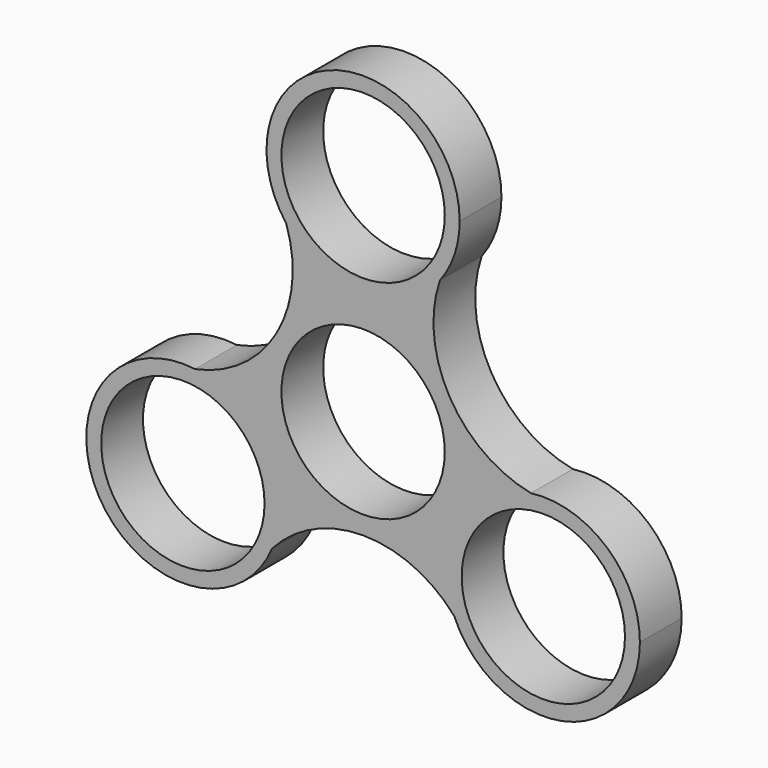
from build123d import *

# Parameters (mm, degrees)
F0_R     = 10.95
F0_R_2   = 12.95
F1_DEPTH = 7


with BuildPart() as f1:
    # F0 (on Front) → F1 (new body)
    with BuildSketch(Plane.XZ):
        with BuildLine():
            ThreePointArc((10.303035, 20.054621), (12.270428, 23.76006), (12.95, 27.9))
            ThreePointArc((12.95, 27.9), (-4.13994, 40.170428), (-10.303035, 20.054621))
            ThreePointArc((-10.303035, 20.054621), (0, 14.95), (10.303035, 20.054621))
        make_face()
        with Locations((0, 27.9)):
            Circle(F0_R, mode=Mode.SUBTRACT)
        with BuildLine():
            ThreePointArc((10.303035, 20.054621), (0, 14.95), (-10.303035, 20.054621))
            ThreePointArc((-10.303035, 20.054621), (-11.606078, 6.700772), (-22.519328, -1.104621))
            ThreePointArc((-22.519328, -1.104621), (-14.441602, -5.393468), (-11.212109, -13.95))
            ThreePointArc((-11.212109, -13.95), (-11.465637, -16.499921), (-12.216294, -18.95))
            ThreePointArc((-12.216294, -18.95), (0, -13.401544), (12.216294, -18.95))
            ThreePointArc((12.216294, -18.95), (12.94708, -7.475), (22.519328, -1.104621))
            ThreePointArc((22.519328, -1.104621), (11.606078, 6.700772), (10.303035, 20.054621))
        make_face()
        Circle(F0_R_2, mode=Mode.SUBTRACT)
        with BuildLine():
            ThreePointArc((-11.212109, -13.95), (-14.441602, -5.393468), (-22.519328, -1.104621))
            ThreePointArc((-22.519328, -1.104621), (-35.377138, -20.425), (-12.216294, -18.95))
            ThreePointArc((-12.216294, -18.95), (-11.465637, -16.499921), (-11.212109, -13.95))
        make_face()
        with Locations((-24.162109, -13.95)):
            Circle(F0_R, mode=Mode.SUBTRACT)
        with BuildLine():
            ThreePointArc((37.112109, -13.95), (32.718641, -4.229493), (22.519328, -1.104621))
            ThreePointArc((22.519328, -1.104621), (12.94708, -7.475), (12.216294, -18.95))
            ThreePointArc((12.216294, -18.95), (26.71203, -26.646472), (37.112109, -13.95))
        make_face()
        with Locations((24.162109, -13.95)):
            Circle(F0_R, mode=Mode.SUBTRACT)
        Circle(F0_R_2)
        Circle(F0_R, mode=Mode.SUBTRACT)
    extrude(amount=F1_DEPTH)


solid = f1.part
